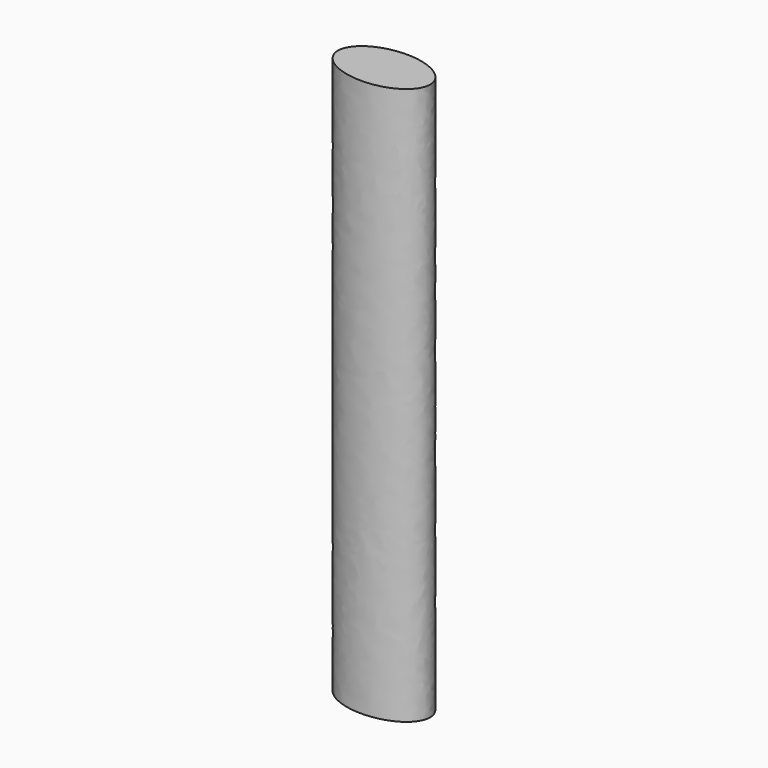
from build123d import *


with BuildPart() as f2:
    # F2: sweep along a path in F1
    with BuildLine(Plane.YZ) as f2_path:
        Line((0, 0), (0, -127))
    # F0 (on Top) → F2 (sweep)
    with BuildSketch(Plane.XY):
        with BuildLine():
            add(Edge.make_bspline(
                [(-10.5, 0), (-10.5, -11.25833), (5.25, -5.629165), (21, 0), (5.25, 5.629165), (-10.5, 11.25833), (-10.5, 0)],
                knots=[0, 0, 0, 2.094395, 2.094395, 4.18879, 4.18879, 6.283185, 6.283185, 6.283185], degree=2, weights=[1, 0.5, 1, 0.5, 1, 0.5, 1]))
        make_face()
    sweep(path=f2_path.line)


solid = f2.part
